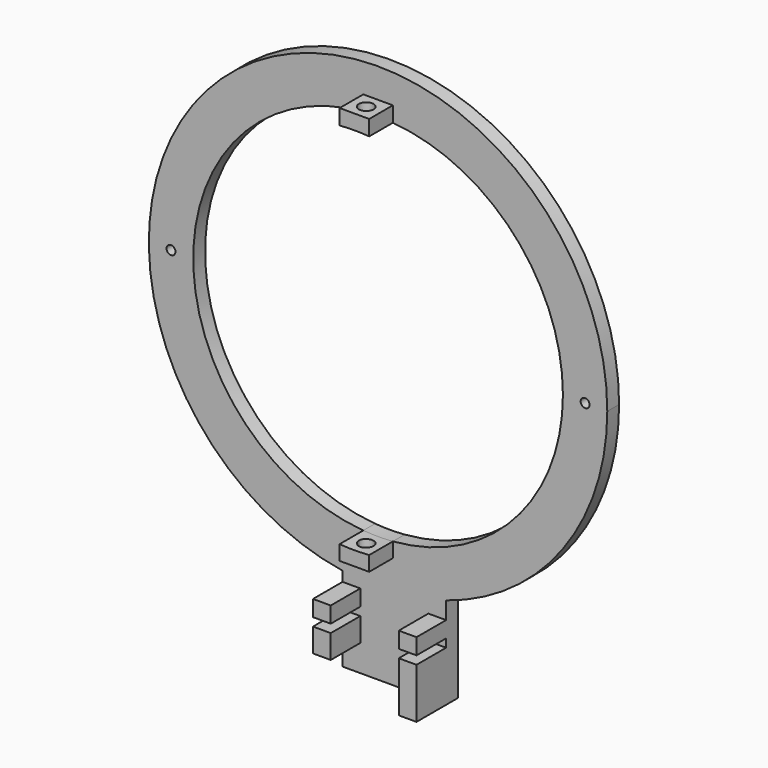
from build123d import *

# Parameters (mm, degrees)
F0_W     = 6
F0_H     = 5.4244026542
F0_H_2   = 17
F0_H_3   = 8
F0_W_2   = 10
F0_H_4   = 3.5826090725
F1_DEPTH = 5
F2_DEPTH = 12.5
F3_DEPTH = 10
F5_D     = 5
F5_DEPTH = 105.1006789719
F6_D     = 5
F7_D     = 3


with BuildPart() as f1:
    # F0 (on Front) → F1 (new body)
    with BuildSketch(Plane.XZ):
        with BuildLine():
            ThreePointArc((5, 62.2996789719), (45.9279326772, 42.3895623945), (62.5, 0))
            ThreePointArc((62.5, 0), (45.9279326772, -42.3895623945), (5, -62.2996789719))
            Line((5, -62.2996789719), (5, -63.7170698994))
            Line((5, -63.7170698994), (23, -63.7170698994))
            Line((23, -63.7170698994), (23, -74.008445464))
            ThreePointArc((23, -74.008445464), (62.40492769, -45.9551411705), (77.5, 0))
            ThreePointArc((77.5, 0), (-50.3798074629, 58.8907887534), (-12, -76.5653315803))
            Line((-12, -76.5653315803), (-12, -63.7170698994))
            Line((-12, -63.7170698994), (-5, -63.7170698994))
            Line((-5, -63.7170698994), (-5, -62.2996789719))
            ThreePointArc((-5, -62.2996789719), (-62.5, 0), (-5, 62.2996789719))
            Line((-5, 62.2996789719), (-5, 67.5))
            Line((-5, 67.5), (5, 67.5))
            Line((5, 67.5), (5, 62.2996789719))
        make_face()
        with BuildLine():
            Line((23, -79.8752763177), (23, -74.008445464))
            ThreePointArc((23, -74.008445464), (5.6466287865, -77.2940203596), (-12, -76.5653315803))
            Line((-12, -76.5653315803), (-12, -79.8752763177))
            Line((-12, -79.8752763177), (-6, -79.8752763177))
            Line((-6, -79.8752763177), (-6, -85.2996789719))
            Line((-6, -85.2996789719), (-12, -85.2996789719))
            Line((-12, -85.2996789719), (-12, -88.0996789719))
            Line((-12, -88.0996789719), (-6, -88.0996789719))
            Line((-6, -88.0996789719), (-6, -96.0996789719))
            Line((-6, -96.0996789719), (-12, -96.0996789719))
            Line((-12, -96.0996789719), (-12, -105.0996789719))
            Line((-12, -105.0996789719), (17, -105.0996789719))
            Line((17, -105.0996789719), (17, -88.0996789719))
            Line((17, -88.0996789719), (23, -88.0996789719))
            Line((23, -88.0996789719), (23, -85.2996789719))
            Line((23, -85.2996789719), (17, -85.2996789719))
            Line((17, -85.2996789719), (17, -79.8752763177))
            Line((17, -79.8752763177), (23, -79.8752763177))
        make_face()
        with BuildLine():
            Line((23, -63.7170698994), (5, -63.7170698994))
            Line((5, -63.7170698994), (5, -67.2996789719))
            Line((5, -67.2996789719), (-5, -67.2996789719))
            Line((-5, -67.2996789719), (-5, -63.7170698994))
            Line((-5, -63.7170698994), (-12, -63.7170698994))
            Line((-12, -63.7170698994), (-12, -76.5653315803))
            ThreePointArc((-12, -76.5653315803), (5.6466287865, -77.2940203596), (23, -74.008445464))
            Line((23, -74.008445464), (23, -63.7170698994))
        make_face()
        with Locations((20, -82.5874776448)):
            Rectangle(F0_W, F0_H)
        with Locations((20, -96.5996789719)):
            Rectangle(F0_W, F0_H_2)
        with Locations((-9, -82.5874776448)):
            Rectangle(F0_W, F0_H)
        with Locations((-9, -92.0996789719)):
            Rectangle(F0_W, F0_H_3)
        with Locations((0, -65.5083744356)):
            Rectangle(F0_W_2, F0_H_4)
        with BuildLine():
            Line((5, -63.7170698994), (5, -62.2996789719))
            ThreePointArc((5, -62.2996789719), (0, -62.5), (-5, -62.2996789719))
            Line((-5, -62.2996789719), (-5, -63.7170698994))
            Line((-5, -63.7170698994), (5, -63.7170698994))
        make_face()
        with BuildLine():
            ThreePointArc((-5, 62.2996789719), (0, 62.5), (5, 62.2996789719))
            Line((5, 62.2996789719), (5, 67.5))
            Line((5, 67.5), (-5, 67.5))
            Line((-5, 67.5), (-5, 62.2996789719))
        make_face()
    extrude(amount=-F1_DEPTH)

    # F0 (on Front) → F2 (join)
    with BuildSketch(Plane.XZ):
        with Locations((20, -82.5874776448)):
            Rectangle(F0_W, F0_H)
        with Locations((20, -96.5996789719)):
            Rectangle(F0_W, F0_H_2)
        with Locations((-9, -92.0996789719)):
            Rectangle(F0_W, F0_H_3)
        with Locations((-9, -82.5874776448)):
            Rectangle(F0_W, F0_H)
    extrude(amount=F2_DEPTH)

    # F0 (on Front) → F3 (join)
    with BuildSketch(Plane.XZ):
        with BuildLine():
            ThreePointArc((-5, 62.2996789719), (0, 62.5), (5, 62.2996789719))
            Line((5, 62.2996789719), (5, 67.5))
            Line((5, 67.5), (-5, 67.5))
            Line((-5, 67.5), (-5, 62.2996789719))
        make_face()
        with BuildLine():
            Line((5, -63.7170698994), (5, -62.2996789719))
            ThreePointArc((5, -62.2996789719), (0, -62.5), (-5, -62.2996789719))
            Line((-5, -62.2996789719), (-5, -63.7170698994))
            Line((-5, -63.7170698994), (5, -63.7170698994))
        make_face()
        with Locations((0, -65.5083744356)):
            Rectangle(F0_W_2, F0_H_4)
    extrude(amount=F3_DEPTH)

    # F5 (through all, one way)
    with BuildSketch(Plane.XY):
        with Locations((0, -5)):
            Circle(F5_D / 2)
    extrude(amount=-F5_DEPTH, mode=Mode.SUBTRACT)

    # F6 (through all)
    with Locations(Plane(origin=(0, 0, 0), x_dir=(1, 0, 0), z_dir=(0, 0, -1))):
        with Locations((0, 5)):
            Hole(F6_D / 2)

    # F7 (through all)
    with Locations(Plane.XZ):
        with Locations((-70, 0), (70, 0)):
            Hole(F7_D / 2)


solid = f1.part
